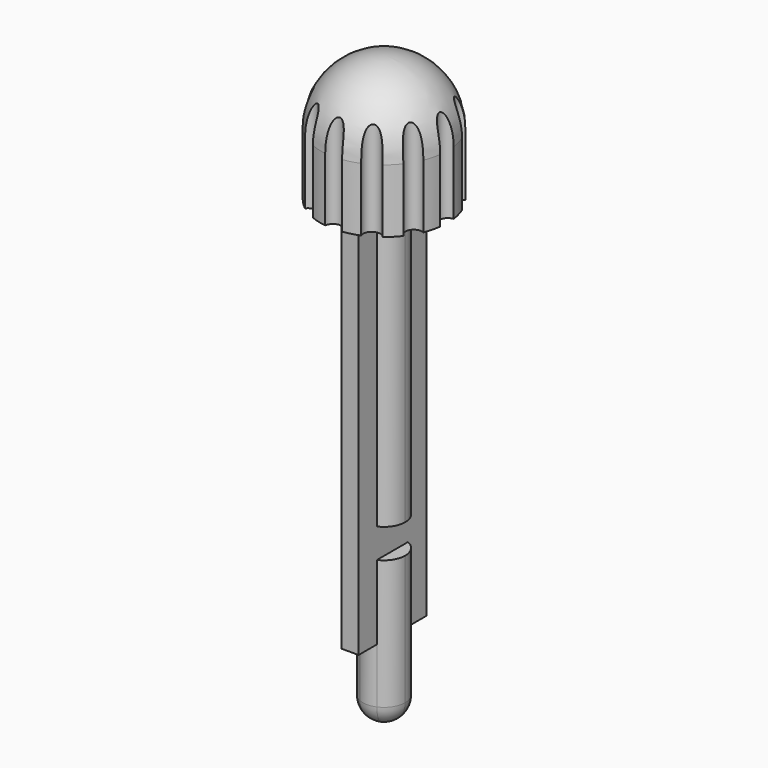
from build123d import *

# Parameters (mm, degrees)
F0_R     = 7.5
F1_DEPTH = 15
F2_DEPTH = 54
F3_DEPTH = 45
F4_R     = 2.5
F5_R     = 7.5
F6_W     = 2.0158715434
F6_H     = 3.4790560603
F7_DEPTH = 25
F8_R     = 1
F9_DEPTH = 21.1077518761


with BuildPart() as f1:
    # F0 (on Top) → F1 (new body)
    with BuildSketch(Plane.XY):
        Circle(F0_R)
        with BuildLine():
            ThreePointArc((1, 2.2912878475), (2.0916500663, 1.3693063938), (2.5, 0))
            ThreePointArc((2.5, 0), (2.0916500663, -1.3693063938), (1, -2.2912878475))
            Line((1, -2.2912878475), (1, -5))
            Line((1, -5), (-1, -5))
            Line((-1, -5), (-1, -2.2912878475))
            ThreePointArc((-1, -2.2912878475), (-2.5, 0), (-1, 2.2912878475))
            Line((-1, 2.2912878475), (-1, 5))
            Line((-1, 5), (1, 5))
            Line((1, 5), (1, 2.2912878475))
        make_face(mode=Mode.SUBTRACT)
        with BuildLine():
            ThreePointArc((1, -2.2912878475), (2.0916500663, -1.3693063938), (2.5, 0))
            ThreePointArc((2.5, 0), (2.0916500663, 1.3693063938), (1, 2.2912878475))
            Line((1, 2.2912878475), (1, -2.2912878475))
        make_face()
        with BuildLine():
            Line((-1, -2.2912878475), (-1, 2.2912878475))
            ThreePointArc((-1, 2.2912878475), (-2.5, 0), (-1, -2.2912878475))
        make_face()
        with BuildLine():
            Line((1, -2.2912878475), (1, 2.2912878475))
            ThreePointArc((1, 2.2912878475), (0, 2.5), (-1, 2.2912878475))
            Line((-1, 2.2912878475), (-1, -2.2912878475))
            ThreePointArc((-1, -2.2912878475), (0, -2.5), (1, -2.2912878475))
        make_face()
        with BuildLine():
            ThreePointArc((-1, 2.2912878475), (0, 2.5), (1, 2.2912878475))
            Line((1, 2.2912878475), (1, 5))
            Line((1, 5), (-1, 5))
            Line((-1, 5), (-1, 2.2912878475))
        make_face()
        with BuildLine():
            Line((1, -5), (1, -2.2912878475))
            ThreePointArc((1, -2.2912878475), (0, -2.5), (-1, -2.2912878475))
            Line((-1, -2.2912878475), (-1, -5))
            Line((-1, -5), (1, -5))
        make_face()
    extrude(amount=F1_DEPTH)

    # F0 (on Top) → F2 (join)
    with BuildSketch(Plane.XY):
        with BuildLine():
            Line((1, -2.2912878475), (1, 2.2912878475))
            ThreePointArc((1, 2.2912878475), (0, 2.5), (-1, 2.2912878475))
            Line((-1, 2.2912878475), (-1, -2.2912878475))
            ThreePointArc((-1, -2.2912878475), (0, -2.5), (1, -2.2912878475))
        make_face()
        with BuildLine():
            Line((-1, -2.2912878475), (-1, 2.2912878475))
            ThreePointArc((-1, 2.2912878475), (-2.5, 0), (-1, -2.2912878475))
        make_face()
        with BuildLine():
            ThreePointArc((1, -2.2912878475), (2.0916500663, -1.3693063938), (2.5, 0))
            ThreePointArc((2.5, 0), (2.0916500663, 1.3693063938), (1, 2.2912878475))
            Line((1, 2.2912878475), (1, -2.2912878475))
        make_face()
    extrude(amount=-F2_DEPTH)

    # F0 (on Top) → F3 (join)
    with BuildSketch(Plane.XY):
        with BuildLine():
            ThreePointArc((-1, 2.2912878475), (0, 2.5), (1, 2.2912878475))
            Line((1, 2.2912878475), (1, 5))
            Line((1, 5), (-1, 5))
            Line((-1, 5), (-1, 2.2912878475))
        make_face()
        with BuildLine():
            Line((1, -5), (1, -2.2912878475))
            ThreePointArc((1, -2.2912878475), (0, -2.5), (-1, -2.2912878475))
            Line((-1, -2.2912878475), (-1, -5))
            Line((-1, -5), (1, -5))
        make_face()
    extrude(amount=-F3_DEPTH)

    # F4
    f4_edges = [f1.edges().sort_by_distance(p)[0] for p in [
        (-1, 2.291288, -54),
    ]]
    fillet(f4_edges, radius=F4_R)

    # F5
    f5_edges = [f1.edges().sort_by_distance(p)[0] for p in [
        (-7.5, 0, 15),
    ]]
    fillet(f5_edges, radius=F5_R)

    # F6 (on face) → F7 (cut)
    with BuildSketch(Plane(origin=(0, 5, 0), x_dir=(-1, 0, 0), z_dir=(0, 1, 0))):
        with Locations((-2.0079357717, -34.4768576324)):
            Rectangle(F6_W, F6_H)
        with Locations((2.0079357717, -34.4768576324)):
            Rectangle(F6_W, F6_H)
    extrude(amount=-F7_DEPTH, mode=Mode.SUBTRACT)

    # F8 (on Top) → F9 (cut)
    with BuildSketch(Plane.XY):
        with Locations((-6.5242789627, -3.7667949958)):
            Circle(F8_R)
        with Locations((-1.2165e-06, 7.533588821)):
            Circle(F8_R)
        with Locations((6.5242793682, -3.7667942934)):
            Circle(F8_R)
        with Locations((-7.533588821, -8.11e-07)):
            Circle(F8_R)
        with Locations((6.5242785573, 3.7667956981)):
            Circle(F8_R)
        with Locations((3.7667946446, -6.5242791655)):
            Circle(F8_R)
        with Locations((4.055e-07, -7.533588821)):
            Circle(F8_R)
        with Locations((3.76679324, 6.5242799764)):
            Circle(F8_R)
        with Locations((-6.5242797737, 3.7667935911)):
            Circle(F8_R)
        with Locations((-3.7667953469, 6.52427876)):
            Circle(F8_R)
        with Locations((7.533588821, 0)):
            Circle(F8_R)
        with Locations((-3.7667939423, -6.524279571)):
            Circle(F8_R)
    extrude(amount=F9_DEPTH, mode=Mode.SUBTRACT)


solid = f1.part
